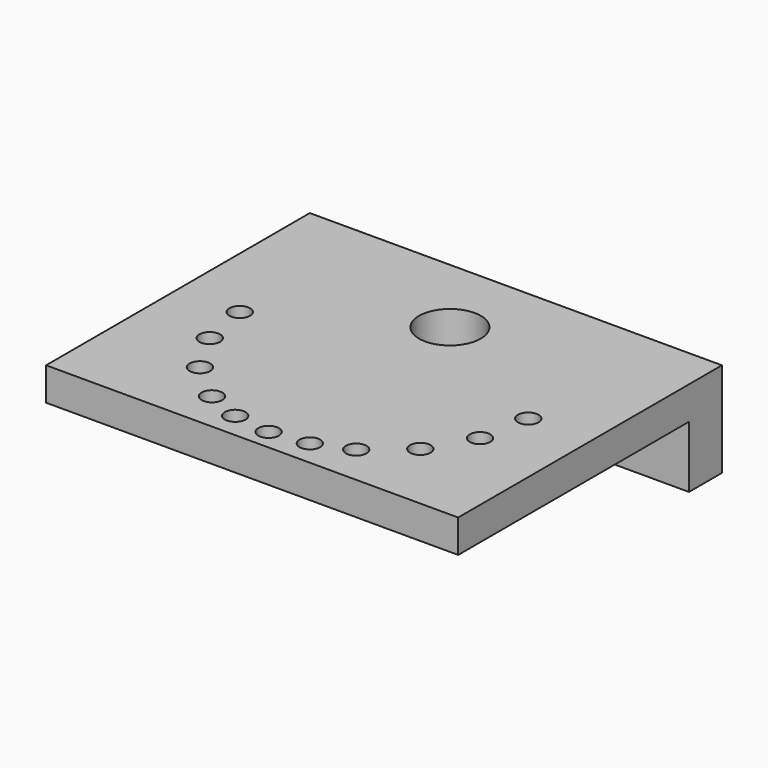
from build123d import *

# Parameters (mm, degrees)
F0_W     = 100
F0_H     = 80
F1_DEPTH = 8
F2_R     = 2.5
F3_DEPTH = 25
F4_W     = 100
F4_H     = 10
F5_DEPTH = 15
F6_R     = 2.526813
F7_DEPTH = 25
F8_R     = 7.5
F9_DEPTH = 25


with BuildPart() as f1:
    # F0 (on Top) → F1 (new body)
    with BuildSketch(Plane.XY):
        Rectangle(F0_W, F0_H)
    extrude(amount=F1_DEPTH)

    # F2 (on face) → F3 (cut)
    with BuildSketch(Plane.XY.offset(8)):
        with Locations((-32.754592, -11.921697)):
            Circle(F2_R)
        with Locations((-26.726142, -22.425896)):
            Circle(F2_R)
        with Locations((-17.5, -30.310889)):
            Circle(F2_R)
        with Locations((0, -35)):
            Circle(F2_R)
        with Locations((-35, 0)):
            Circle(F2_R)
        with Locations((17.5, -30.310889)):
            Circle(F2_R)
        with Locations((26.811556, -22.497566)):
            Circle(F2_R)
        with Locations((32.889242, -11.970705)):
            Circle(F2_R)
        with Locations((35, 0)):
            Circle(F2_R)
        with Locations((-9.058667, -33.807404)):
            Circle(F2_R)
        with Locations((9.058667, -33.807404)):
            Circle(F2_R)
    extrude(amount=-F3_DEPTH, mode=Mode.SUBTRACT)

    # F4 (on face) → F5 (join)
    with BuildSketch(Plane(origin=(0, 0, 0), x_dir=(1, 0, 0), z_dir=(0, 0, -1))):
        with Locations((0, -35)):
            Rectangle(F4_W, F4_H)
    extrude(amount=F5_DEPTH)

    # F6 (on face) → F7 (cut)
    with BuildSketch(Plane(origin=(0, 40, 0), x_dir=(-1, 0, 0), z_dir=(0, 1, 0))):
        with Locations((35, -5)):
            Circle(F6_R)
        with Locations((-35, -5)):
            Circle(F6_R)
    extrude(amount=-F7_DEPTH, mode=Mode.SUBTRACT)

    # F8 (on face) → F9 (cut)
    with BuildSketch(Plane.XY.offset(8)):
        with Locations((0, 20)):
            Circle(F8_R)
    extrude(amount=-F9_DEPTH, mode=Mode.SUBTRACT)


solid = f1.part
